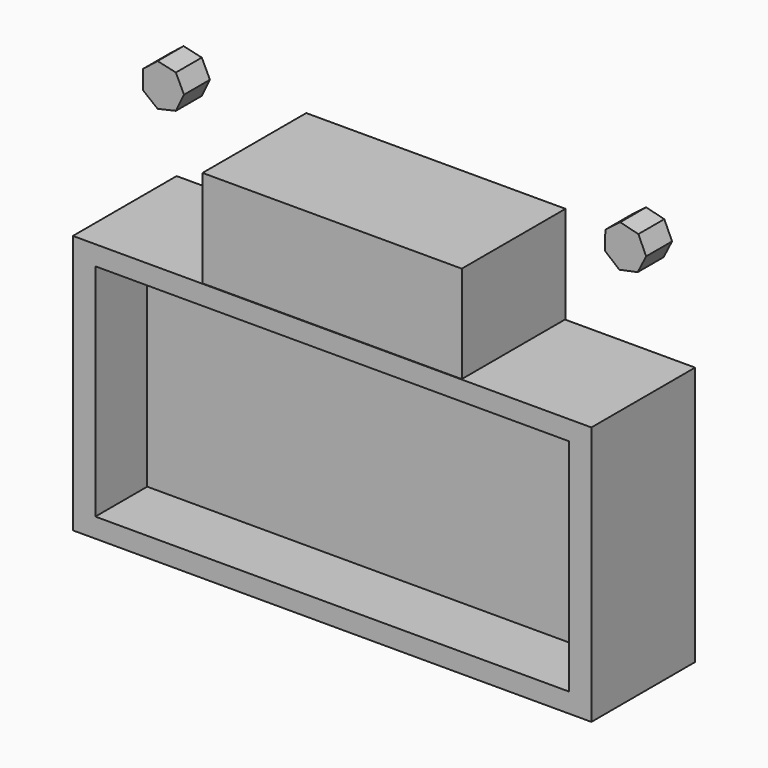
from build123d import *

# Parameters (mm, degrees)
F0_W     = 92.80128
F0_H     = 43.18
F1_DEPTH = 12.7
F0_W_2   = 101.6
F0_H_2   = 50.8
F0_W_3   = 25.4
F0_H_3   = 19.05
F2_DEPTH = 25.4
F5_DEPTH = 6.35


with BuildPart() as f1:
    # F0 (on Front) → F1 (new body)
    with BuildSketch(Plane.XZ):
        Rectangle(F0_W, F0_H)
    extrude(amount=F1_DEPTH)

    # F0 (on Front) → F2 (join)
    with BuildSketch(Plane.XZ):
        Rectangle(F0_W_2, F0_H_2)
        Rectangle(F0_W, F0_H, mode=Mode.SUBTRACT)
        with Locations((-12.7, 35.003949)):
            Rectangle(F0_W_3, F0_H_3)
        with Locations((12.7, 35.003949)):
            Rectangle(F0_W_3, F0_H_3)
    extrude(amount=F2_DEPTH)


with BuildPart() as f5:
    # F4 (on Front) → F5 (new body)
    with BuildSketch(Plane.XZ):
        Polygon((-52.309997, 45.973995), (-52.309997, 42.304396), (-49.44099, 40.016439), (-45.863396, 40.833002), (-44.271216, 44.139196), (-45.863396, 47.44539), (-49.44099, 48.261952), align=None)
        Polygon((38.213673, 44.036436), (41.034899, 41.689814), (44.628568, 42.432441), (46.288574, 45.705106), (44.764899, 49.043424), (41.204901, 49.933574), (38.289331, 47.705255), align=None)
    extrude(amount=F5_DEPTH)


solid = Compound([f1.part, f5.part])
